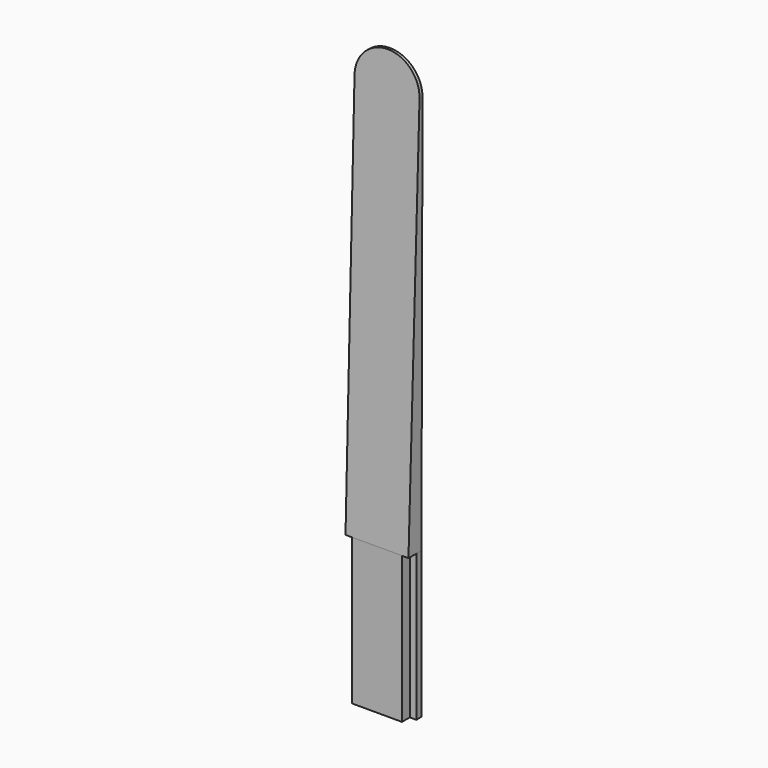
from build123d import *

# Parameters (mm, degrees)
PAD003_DEPTH    = 2.5
POCKET004_DEPTH = 22.5
POCKET005_DEPTH = 10.013736


with BuildPart() as part:
    # Sketch010 → Pad003 (new body)
    with BuildSketch(Plane.XZ):
        with BuildLine():
            Line((-4.84295, 0), (4.84295, 0))
            Line((4.84295, 0), (4.84295, 22.5))
            Line((4.84295, 22.5), (5, 84))
            ThreePointArc((5, 84), (0, 89), (-5, 84))
            Line((-4.84295, 22.5), (-5, 84))
            Line((-4.84295, 22.5), (-4.84295, 0))
        make_face()
    extrude(amount=PAD003_DEPTH)

    # Sketch011 (on Face1 of Pad003) → Pocket004 (cut)
    with BuildSketch(Plane(origin=(0, 0, 0), x_dir=(1, 0, 0), z_dir=(0, 0, -1))):
        Polygon((-3.84295, 2.5), (-3.84295, 1), (-8.84295, 1), (-8.84295, 6.001038), align=None)
        Polygon((8.84295, 6.001038), (3.84295, 2.5), (3.84295, 1), (8.84295, 1), align=None)
    extrude(amount=-POCKET004_DEPTH, mode=Mode.SUBTRACT)

    # Sketch012 (on Face12 of Pocket004) → Pocket005 (cut, through all)
    with BuildSketch(Plane(origin=(-4.785462, 0, -0.01222), x_dir=(0.002554, 0, -0.999997), z_dir=(-0.999997, 0, -0.002554))):
        Polygon((-89.412494, 0.4), (-22.512294, 2.5), (-89.412494, 14.23), align=None)
    extrude(amount=-POCKET005_DEPTH, mode=Mode.SUBTRACT)


with BuildPart() as part_1:
    # Body001 placement: moved
    add(part.part.moved(Location((0, 25, 0))))


solid = part_1.part
